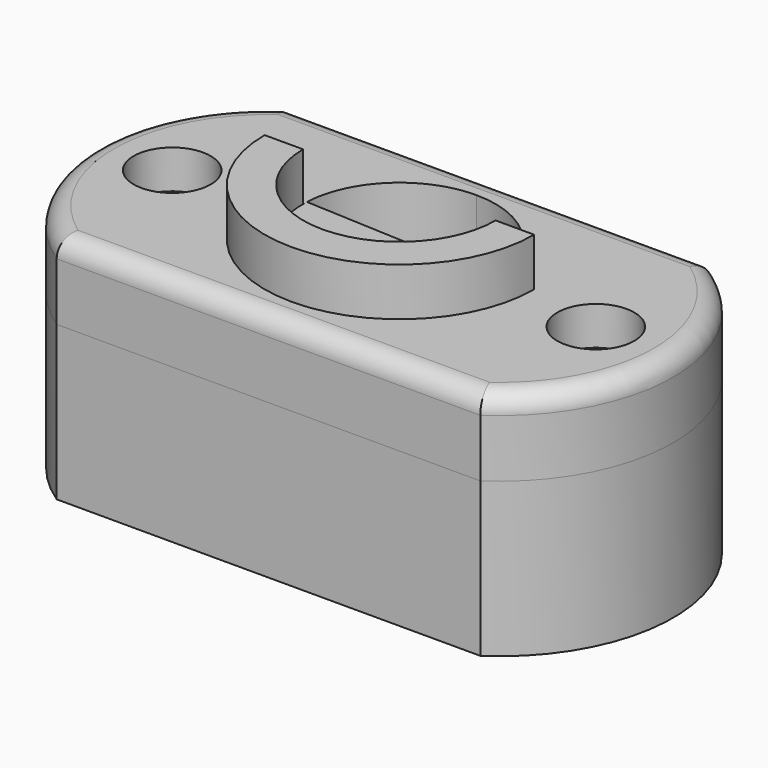
from build123d import *

# Parameters (mm, degrees)
F0_W            = 22
F0_H            = 15
F1_DEPTH        = 8
F2_R            = 1
F2_W            = 11
F2_H            = 12
F3_DEPTH        = 9
F4_W            = 11
F4_H            = 9
F5_DEPTH        = 0.5
F6_W            = 22
F6_H            = 15
F7_DEPTH        = 4
F9_DEPTH        = 4
F10_R           = 1
F11_D           = 2
F11_DEPTH       = 20
F11_CBORE_D     = 4
F11_CBORE_DEPTH = 2
F13_DEPTH       = 2.5


with BuildPart() as f1:
    # F0 (on Top) → F1 (new body)
    with BuildSketch(Plane.XY):
        with Locations((-45, -43.541376)):
            Rectangle(F0_W, F0_H)
        with BuildLine():
            ThreePointArc((-34, -51.041376), (-29.974937, -43.541376), (-34, -36.041376))
            Line((-34, -36.041376), (-34, -51.041376))
        make_face()
        with BuildLine():
            Line((-56, -51.041376), (-56, -36.041376))
            ThreePointArc((-56, -36.041376), (-60.025063, -43.541376), (-56, -51.041376))
        make_face()
    extrude(amount=F1_DEPTH)

    # F2 (on face) → F3 (cut)
    with BuildSketch(Plane.XY.offset(8)):
        with Locations((-56, -43.541376)):
            Circle(F2_R)
        with Locations((-34, -43.541376)):
            Circle(F2_R)
        with Locations((-45, -43.541376)):
            Rectangle(F2_W, F2_H)
    extrude(amount=-F3_DEPTH, mode=Mode.SUBTRACT)

    # F4 (on face) → F5 (join)
    with BuildSketch(Plane(origin=(0, 0, 0), x_dir=(1, 0, 0), z_dir=(0, 0, -1))):
        with Locations((-45, 42.041376)):
            Rectangle(F4_W, F4_H)
    extrude(amount=-F5_DEPTH)


with BuildPart() as f7:
    # F6 (on face) → F7 (new body)
    with BuildSketch(Plane.XY.offset(8)):
        with Locations((-45, -43.541376)):
            Rectangle(F6_W, F6_H)
        with BuildLine():
            ThreePointArc((-34, -51.041376), (-29.974937, -43.541376), (-34, -36.041376))
            Line((-34, -36.041376), (-34, -51.041376))
        make_face()
        with BuildLine():
            Line((-56, -51.041376), (-56, -36.041376))
            ThreePointArc((-56, -36.041376), (-60.025063, -43.541376), (-56, -51.041376))
        make_face()
    extrude(amount=F7_DEPTH)

    # F8 (on face) → F9 (cut)
    with BuildSketch(Plane.XY.offset(12)):
        with BuildLine():
            ThreePointArc((-45, -37.541376), (-48.535534, -46.076909), (-40, -42.541376))
            ThreePointArc((-40, -42.541376), (-41.464466, -39.005842), (-45, -37.541376))
        make_face()
    extrude(amount=-F9_DEPTH, mode=Mode.SUBTRACT)

    # F10
    f10_edges = [f7.edges().sort_by_distance(p)[0] for p in [
        (-29.974937, -43.541376, 12),
        (-45, -36.041376, 12),
        (-60.025063, -43.541376, 12),
        (-45, -51.041376, 12),
    ]]
    fillet(f10_edges, radius=F10_R)

    # F11
    with Locations(Plane.XY.offset(12)):
        with Locations((-34, -43.541376), (-56, -43.541376)):
            CounterBoreHole(F11_D / 2, F11_CBORE_D / 2, F11_CBORE_DEPTH, depth=F11_DEPTH)

    # F12 (on face) → F13 (join)
    with BuildSketch(Plane.XY.offset(12)):
        with BuildLine():
            ThreePointArc((-40, -42.541376), (-45, -47.541376), (-50, -42.541376))
            Line((-50, -42.541376), (-52, -42.541376))
            ThreePointArc((-52, -42.541376), (-45, -49.541376), (-38, -42.541376))
            Line((-38, -42.541376), (-40, -42.541376))
        make_face()
    extrude(amount=F13_DEPTH)


solid = Compound([f1.part, f7.part])
